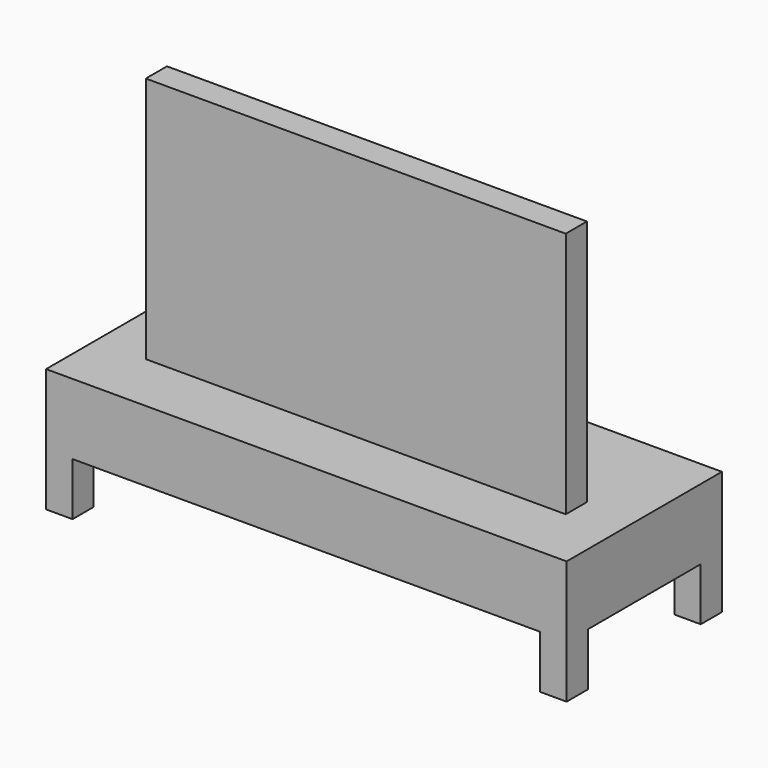
from build123d import *

# Parameters (mm, degrees)
F0_W     = 76.2
F0_H     = 76.2
F1_DEPTH = 152.4
F2_DEPTH = 152.4
F3_W     = 76.2
F3_H     = 76.2
F4_DEPTH = 203.2
F5_W     = 1209.04
F5_H     = 76.2
F6_DEPTH = 711.2


with BuildPart() as f1:
    # F0 (on Top) → F1 (new body)
    with BuildSketch(Plane.XY):
        with Locations((38.1, 38.1)):
            Rectangle(F0_W, F0_H)
    extrude(amount=F1_DEPTH)



with BuildPart() as f2:
    # F0 (on Top) → F2 (new body)
    with BuildSketch(Plane.XY):
        with Locations((38.1, 520.7)):
            Rectangle(F0_W, F0_H)
    extrude(amount=F2_DEPTH)


with BuildPart() as f2b:
    # F0 (on Top) → F2, piece 2 (new body)
    with BuildSketch(Plane.XY):
        with Locations((1460.5, 520.7)):
            Rectangle(F0_W, F0_H)
    extrude(amount=F2_DEPTH)


with BuildPart() as f2c:
    # F0 (on Top) → F2, piece 3 (new body)
    with BuildSketch(Plane.XY):
        with Locations((1460.5, 38.1)):
            Rectangle(F0_W, F0_H)
    extrude(amount=F2_DEPTH)


with BuildPart() as f1_1:
    add(f1.part)

    add(f2.part)  # F4 merges F2

    add(f2b.part)  # F4 merges F2b

    add(f2c.part)  # F4 merges F2c
    # F3 (on face) → F4 (join)
    with BuildSketch(Plane.XY.offset(152.4)):
        Polygon((76.2, 76.2), (76.2, 0), (1498.6, 0), (1498.6, 558.8), (0, 558.8), (0, 76.2), align=None)
        with Locations((38.1, 38.1)):
            Rectangle(F3_W, F3_H)
    extrude(amount=F4_DEPTH)

    # F5 (on face) → F6 (join)
    with BuildSketch(Plane.XY.offset(355.6)):
        with Locations((749.3, 215.9)):
            Rectangle(F5_W, F5_H)
    extrude(amount=F6_DEPTH)


solid = f1_1.part
